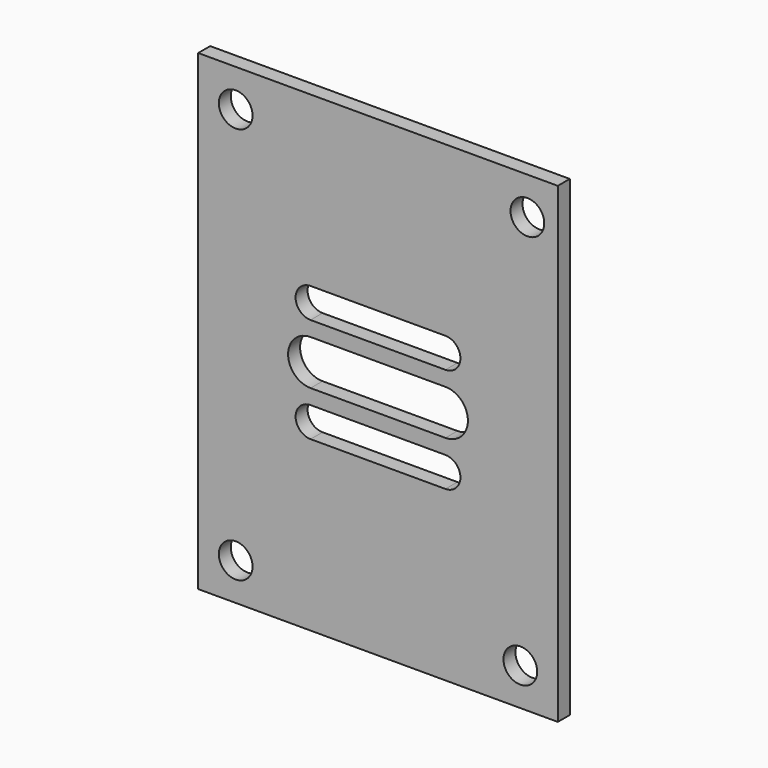
from build123d import *

# Parameters (mm, degrees)
F0_W     = 48
F0_H     = 63
F0_R     = 2.25
F1_DEPTH = 2


with BuildPart() as f1:
    # F0 (on Front) → F1 (new body)
    with BuildSketch(Plane.XZ):
        with Locations((24, 31.5)):
            Rectangle(F0_W, F0_H)
        with Locations((5, 5)):
            Circle(F0_R, mode=Mode.SUBTRACT)
        with Locations((43, 5)):
            Circle(F0_R, mode=Mode.SUBTRACT)
        with BuildLine():
            ThreePointArc((15, 22.5), (13, 24.5), (15, 26.5))
            Line((15, 26.5), (33, 26.5))
            ThreePointArc((33, 26.5), (35, 24.5), (33, 22.5))
            Line((33, 22.5), (15, 22.5))
        make_face(mode=Mode.SUBTRACT)
        with Locations((5, 58)):
            Circle(F0_R, mode=Mode.SUBTRACT)
        with BuildLine():
            ThreePointArc((15, 28.5), (12, 31.5), (15, 34.5))
            Line((15, 34.5), (33, 34.5))
            ThreePointArc((33, 34.5), (36, 31.5), (33, 28.5))
            Line((33, 28.5), (15, 28.5))
        make_face(mode=Mode.SUBTRACT)
        with BuildLine():
            ThreePointArc((15, 36.5), (13, 38.5), (15, 40.5))
            Line((15, 40.5), (33, 40.5))
            ThreePointArc((33, 40.5), (35, 38.5), (33, 36.5))
            Line((33, 36.5), (15, 36.5))
        make_face(mode=Mode.SUBTRACT)
        with Locations((43.939494, 58)):
            Circle(F0_R, mode=Mode.SUBTRACT)
    extrude(amount=F1_DEPTH)


solid = f1.part
